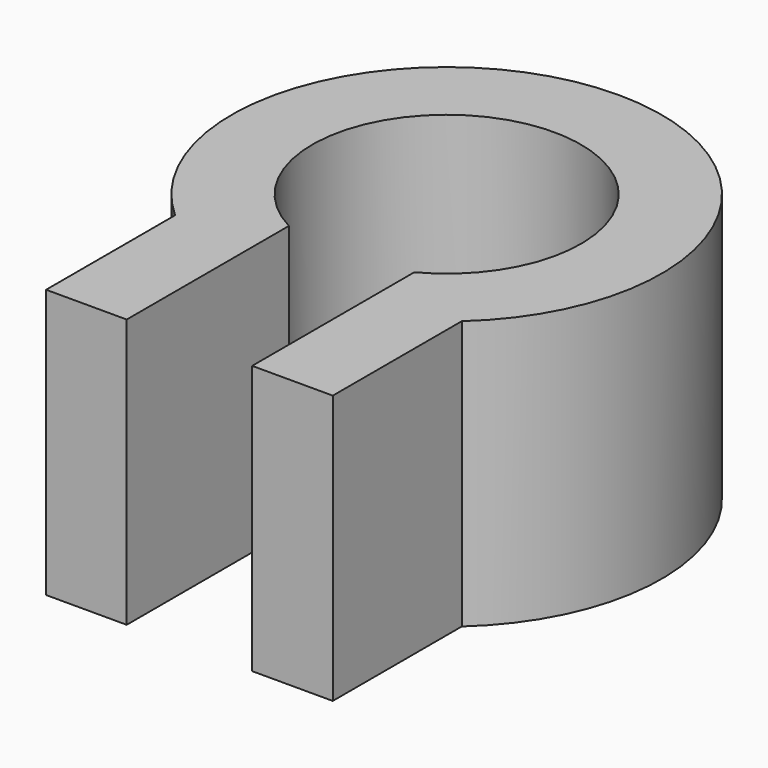
from build123d import *

# Parameters (mm, degrees)
F1_DEPTH = 5
F3_DEPTH = 10


with BuildPart() as f1:
    # F0 (on Top) → F1 (new body, symmetric)
    with BuildSketch(Plane.XY):
        with BuildLine():
            Line((5.333333, -11.962848), (5.333333, -5.962848))
            ThreePointArc((5.333333, -5.962848), (0, 8), (-5.333333, -5.962848))
            Line((-5.333333, -5.962848), (-5.333333, -11.962848))
            Line((-5.333333, -11.962848), (0, -11.962848))
            Line((0, -11.962848), (5.333333, -11.962848))
        make_face()
    extrude(amount=F1_DEPTH, both=True)

    # F2 (on face) → F3 (cut)
    with BuildSketch(Plane.XY.offset(5)):
        with BuildLine():
            ThreePointArc((2.333333, -4.422166), (0, 5), (-2.333333, -4.422166))
            Line((-2.333333, -4.422166), (-2.333333, -26.18034))
            Line((-2.333333, -26.18034), (2.333333, -26.18034))
            Line((2.333333, -26.18034), (2.333333, -4.422166))
        make_face()
    extrude(amount=-F3_DEPTH, mode=Mode.SUBTRACT)


solid = f1.part
